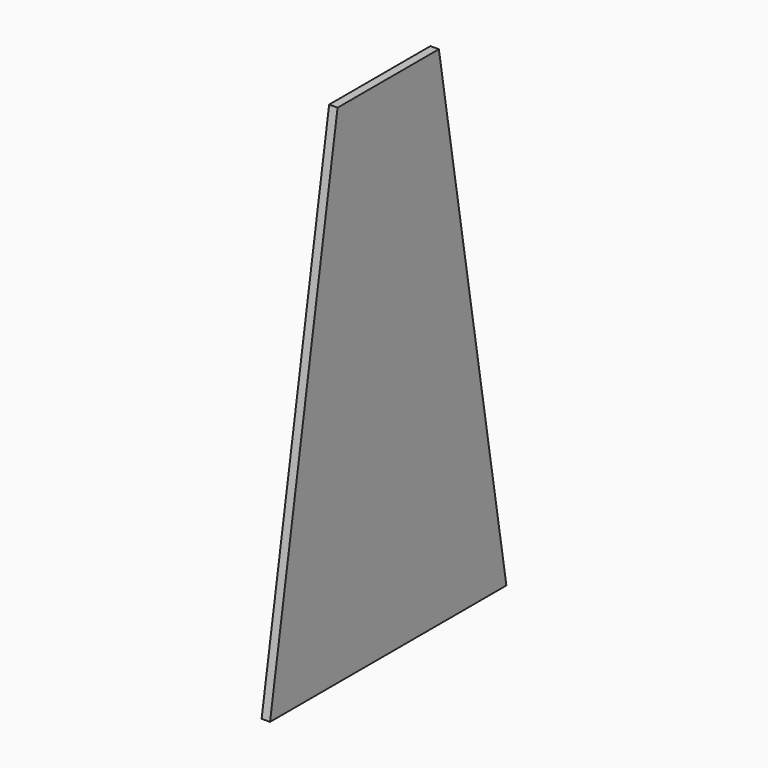
from build123d import *

# Parameters (mm, degrees)
F1_DEPTH = 20


with BuildPart() as f1:
    # F0 (on Right) → F1 (new body)
    with BuildSketch(Plane.YZ):
        Polygon((0, 500.353346), (-150, 500.353346), (-350, -699.646654), (0, -699.646654), align=None)
        Polygon((150, 500.353346), (0, 500.353346), (0, -699.646654), (350, -699.646654), align=None)
    extrude(amount=F1_DEPTH)


solid = f1.part
